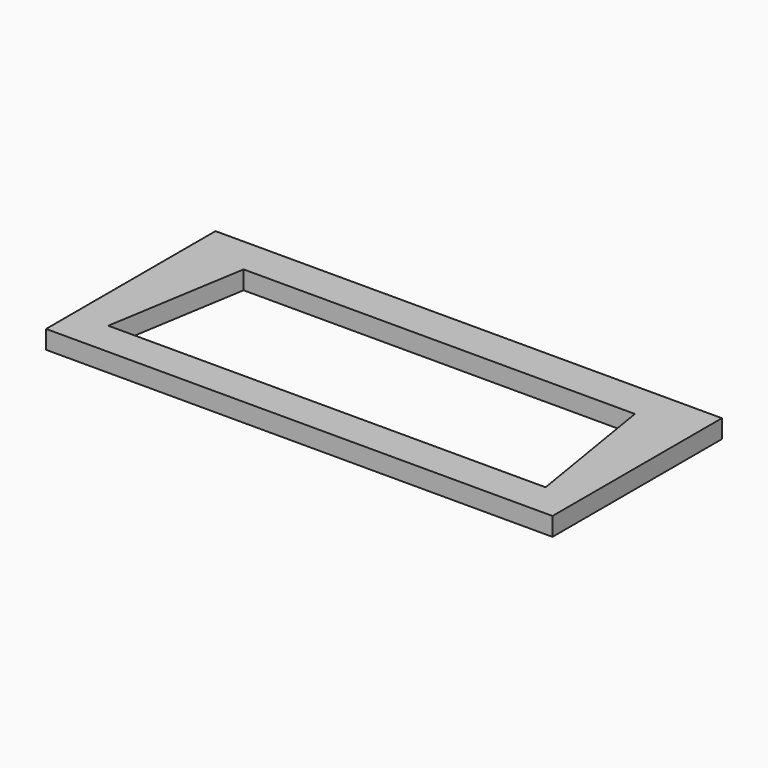
from build123d import *

# Parameters (mm, degrees)
EXTRUDE_DEPTH = 10
BOX_W         = 220
BOX_H         = 92
BOX_DEPTH     = 8


with BuildPart() as extrude_body:
    # Sketch001 → Extrude (new body)
    with BuildSketch(Plane.XY):
        Polygon((-95, 0), (95, 0), (85, 61), (-85, 61), align=None)
    extrude(amount=EXTRUDE_DEPTH)


with BuildPart() as obj1:
    # Box → Box (new body)
    with BuildSketch(Plane(origin=(-110, -15, 0), x_dir=(1, 0, 0), z_dir=(0, 0, 1))):
        with Locations((110, 46)):
            Rectangle(BOX_W, BOX_H)
    extrude(amount=BOX_DEPTH)

    # Cut: cut Extrude body
    add(extrude_body.part, mode=Mode.SUBTRACT)


solid = obj1.part
